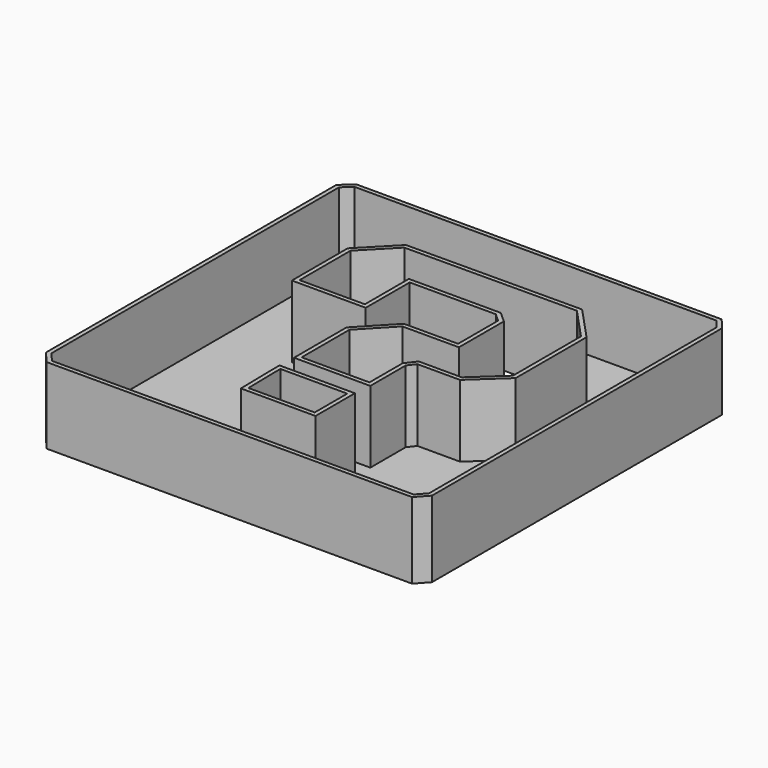
from build123d import *

# Parameters (mm, degrees)
F1_DEPTH = 17
F2_T     = 1
F3_R     = 3.5616299701
F3_R_2   = 3.3888359299
F3_R_3   = 3.7011523773
F3_R_4   = 3.561628653
F4_DEPTH = 25


with BuildPart() as f1:
    # F0 (on Top) → F1 (new body)
    with BuildSketch(Plane.XY):
        Polygon((-43.5885637999, 51.4345057309), (-45.7195602357, 49.4972355664), (-45.7195602357, -35.3551693261), (-43.7822900712, -37.6798920333), (41.6512936354, -37.6798920333), (43.5885637999, -35.5488955975), (43.5885637999, 49.303509295), (41.8450199068, 51.4345057309), align=None)
        Polygon((-9.6863470972, -24.5064590126), (-9.8800742999, -12.882841751), (7.9428050667, -12.882841751), (7.9428050667, -24.5064590126), align=None, mode=Mode.SUBTRACT)
        Polygon((-29.2527694255, 31.4806289971), (-21.6974187642, 39.2297059298), (19.7601504624, 39.4234322011), (27.315499261, 31.2869027257), (27.315499261, 10.364391841), (19.7601504624, 3.3902216237), (9.6863470972, 3.3902216237), (8.3302585408, 1.6466790112), (8.3302585408, -8.8145760819), (-9.6863470972, -8.8145760819), (-9.6863470972, 6.6835791804), (-2.3247229401, 14.4326565787), (10.4612540454, 14.4326565787), (10.4612540454, 26.2500010431), (8.5239848122, 27.9935430735), (-11.817343533, 27.9935430735), (-11.817343533, 26.4437273145), (-11.817343533, 15.0138381869), (-29.2527694255, 15.0138381869), align=None, mode=Mode.SUBTRACT)
    extrude(amount=F1_DEPTH)

    # F2
    f2_openings = [f1.faces().sort_by_distance(p)[0] for p in [
        (-0.871772, 50.172867, 17),
    ]]
    offset(amount=F2_T, openings=f2_openings, kind=Kind.INTERSECTION)

    # F3 (on Top) → F4 (cut)
    with BuildSketch(Plane.XY):
        with Locations((35.9209813178, 43.8607819378)):
            Circle(F3_R)
        with Locations((-37.6952588558, 43.4733256698)):
            Circle(F3_R_2)
        with Locations((35.9209813178, -29.5617301017)):
            Circle(F3_R_3)
        with Locations((-37.8889851272, -29.5617301017)):
            Circle(F3_R_4)
    extrude(amount=-F4_DEPTH, mode=Mode.SUBTRACT)


solid = f1.part
